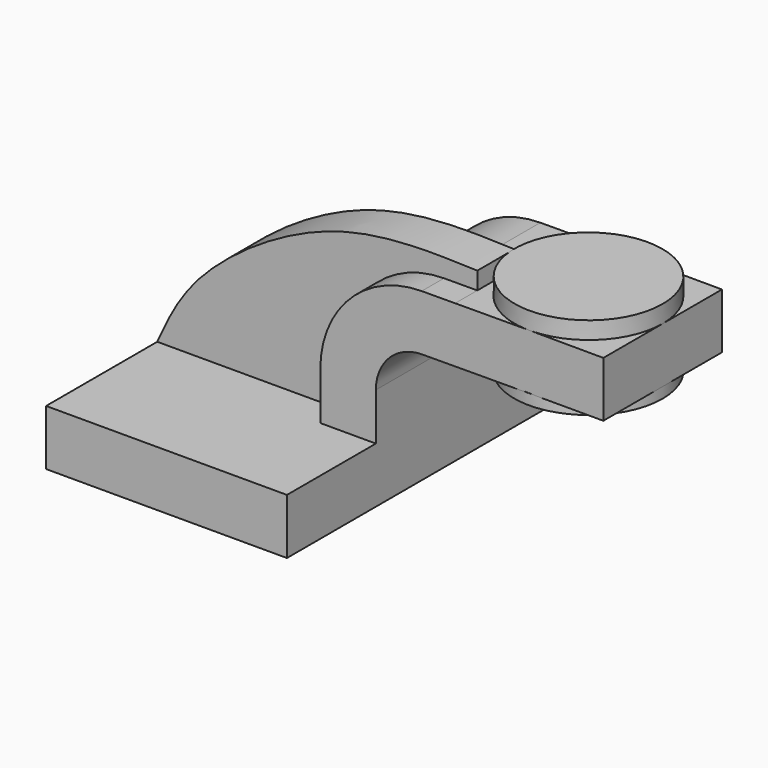
from build123d import *

# Parameters (mm, degrees)
F1_DEPTH = 63.5
F2_DEPTH = 25.4
F3_DEPTH = 15.875
F4_DEPTH = 25.4


with BuildPart() as f1:
    # F0 (on Front) → F1 (new body, symmetric)
    with BuildSketch(Plane.XZ):
        Polygon((-41.275, -9.525), (41.275, -9.525), (41.275, 9.525), (22.225, 9.525), (-41.275, 9.525), align=None)
    extrude(amount=F1_DEPTH, both=True)

    # F0 (on Front) → F2 (join, symmetric)
    with BuildSketch(Plane.XZ):
        with BuildLine():
            Line((22.225, 9.525), (41.275, 9.525))
            Line((41.275, 9.525), (41.275, 25.7178696878))
            ThreePointArc((41.275, 25.7178696878), (45.8998261561, 36.9182809964), (57.0796253206, 41.5927136998))
            Line((57.0796253206, 41.5927136998), (68.4412825856, 41.643080997))
            Line((68.4412825856, 41.643080997), (68.4412825856, 60.6932681845))
            Line((68.4412825856, 60.6932681845), (56.9951757054, 60.6425265141))
            ThreePointArc((56.9951757054, 60.6425265141), (32.3996175435, 50.3587745668), (22.225, 25.7178696878))
            Line((22.225, 25.7178696878), (22.225, 9.525))
        make_face()
    extrude(amount=F2_DEPTH, both=True)

    # F0 (on Front) → F3 (join)
    with BuildSketch(Plane.XZ):
        with BuildLine():
            add(Edge.make_bspline(
                [(-41.275, 9.525), (-37.726026519, 17.3571106564), (-29.2428259937, 36.0784016411), (18.3467226323, 68.3243904358), (51.9597658065, 67.2176628394), (68.4412825856, 66.675)],
                knots=[0, 0, 0, 0, 0.2682476731, 0.6411991562, 1, 1, 1, 1], degree=3))
            Line((-41.275, 9.525), (22.225, 9.525))
            Line((22.225, 9.525), (22.225, 25.7178696878))
            ThreePointArc((22.225, 25.7178696878), (32.3996175435, 50.3587745668), (56.9951757054, 60.6425265141))
            Line((56.9951757054, 60.6425265141), (68.4412825856, 60.6932681845))
            Line((68.4412825856, 60.6932681845), (68.4412825856, 66.675))
        make_face()
    extrude(amount=F3_DEPTH)

    # F0 (on Front) → F4 (join, symmetric)
    with BuildSketch(Plane.XZ):
        Polygon((93.7568329704, 60.8054944048), (68.4412825856, 60.6932681845), (68.4412825856, 41.643080997), (93.7676358867, 41.7553551076), (93.8239354557, 60.8052960923), align=None)
        Polygon((119.2412825856, 60.7301785005), (93.8239354557, 60.8052960923), (93.7676358867, 41.7553551076), (93.8412825856, 41.7556815904), (119.2412825856, 41.7556815904), align=None)
    extrude(amount=F4_DEPTH, both=True)

    # F0 (on Front) → F5 (revolve)
    with BuildSketch(Plane.XZ):
        Polygon((93.8412825856, 41.7556815904), (93.7676358867, 41.7553551076), (93.7568329704, 38.1), (119.2412825856, 38.1), (119.2412825856, 41.7556815904), align=None)
        Polygon((119.2412825856, 66.675), (93.8412825856, 66.675), (93.8239354557, 60.8052960923), (119.2412825856, 60.7301785005), align=None)
    revolve(axis=Axis((93.799057778, 0, 52.3875), (-0.0029553542, 0, -0.9999956329)))


solid = f1.part
